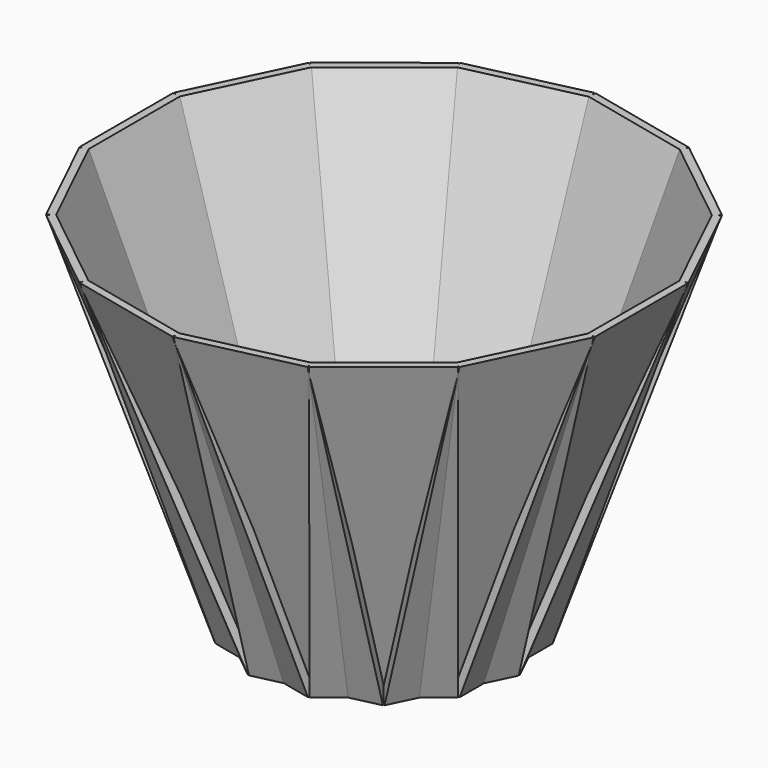
from build123d import *

# Parameters (mm, degrees)
F1_DEPTH      = 4
F1_DEPTH_BACK = 4
F2_COUNT      = 14


with BuildPart() as f1:
    # F0 (on Front) → F1 (new body, two sides)
    with BuildSketch(Plane.XZ) as f1_sk:
        Polygon((0, 0.5), (0, 0), (8.40777345, 0), (17.7297703922, 24.8893443495), (17.1958512824, 24.8893443495), (8.0611231732, 0.5), align=None)
    extrude(amount=F1_DEPTH)
    extrude(f1_sk.sketch, amount=-F1_DEPTH_BACK)

    # F2: F1 ×14 about axis
    f2_axis = Axis((0, 0, 1.0500000276), (0, 0, -1))


with BuildPart() as f1_1:
    add(f1.part)
    for i in range(1, F2_COUNT):
        add(f1.part.rotate(f2_axis, i * 360 / F2_COUNT))


solid = f1_1.part
